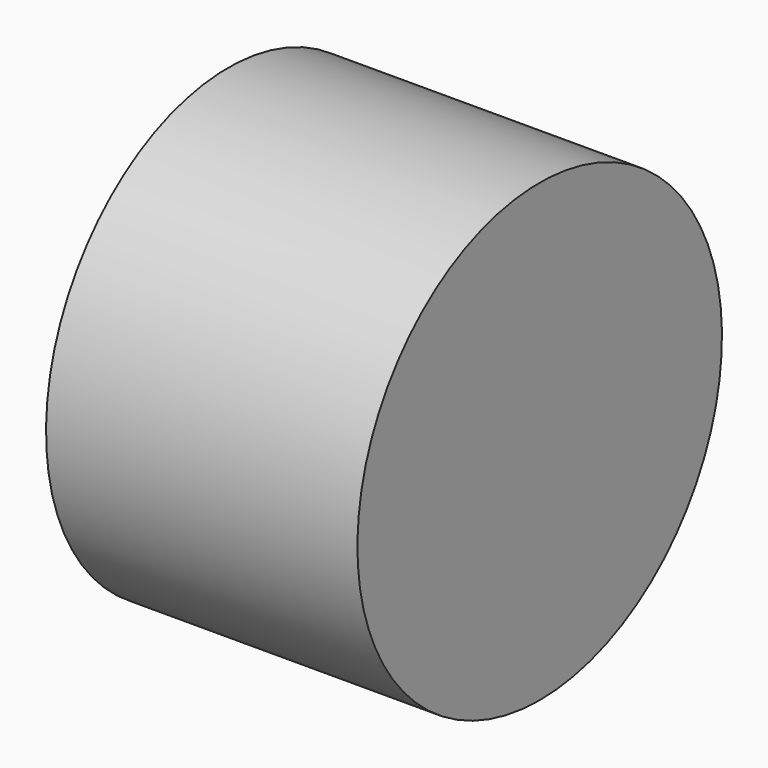
from build123d import *

# Parameters (mm, degrees)
CYLINDER072_R     = 1.25
CYLINDER072_DEPTH = 5
CYLINDER075_R     = 3
CYLINDER075_DEPTH = 4.1


with BuildPart() as b_w014:
    # Cylinder072 → Cylinder072 (new body)
    with BuildSketch(Plane(origin=(2, 26, 26), x_dir=(0, 0, 1), z_dir=(-1, 0, 0))):
        Circle(CYLINDER072_R)
    extrude(amount=CYLINDER072_DEPTH)


with BuildPart() as cut038:
    # Cylinder075 → Cylinder075 (new body)
    with BuildSketch(Plane(origin=(-1, 26, 26), x_dir=(0, 0, -1), z_dir=(1, 0, 0))):
        Circle(CYLINDER075_R)
    extrude(amount=CYLINDER075_DEPTH)

    # Cut038: cut B_W014
    add(b_w014.part, mode=Mode.SUBTRACT)


solid = cut038.part
